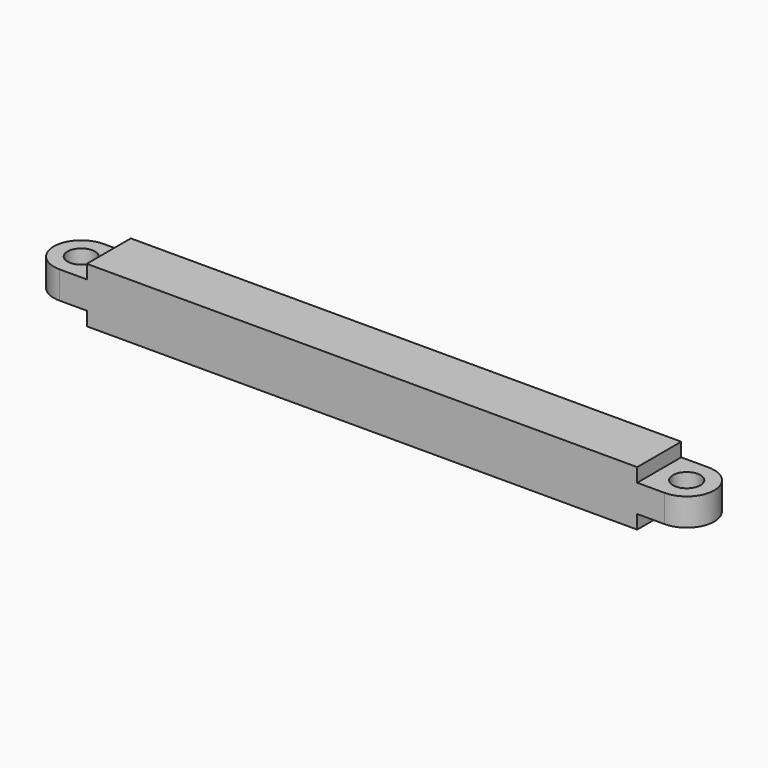
from build123d import *

# Parameters (mm, degrees)
F0_W     = 279.4
F0_H     = 25.4
F1_DEPTH = 25.4
F2_R     = 6.35
F3_DEPTH = 25.4
F4_W     = 152.4
F4_H     = 6.35
F5_DEPTH = 25.401


with BuildPart() as f1:
    # F0 (on Top) → F1 (new body)
    with BuildSketch(Plane.XY):
        Rectangle(F0_W, F0_H)
        with BuildLine():
            Line((139.7, 12.7), (139.7, -12.7))
            ThreePointArc((139.7, -12.7), (152.4, 0), (139.7, 12.7))
        make_face()
        with BuildLine():
            ThreePointArc((-139.7, 12.7), (-152.4, 0), (-139.7, -12.7))
            Line((-139.7, -12.7), (-139.7, 12.7))
        make_face()
    extrude(amount=F1_DEPTH)

    # F2 (on face) → F3 (cut, through all)
    with BuildSketch(Plane.XY.offset(25.4)):
        with Locations((-139.7, 0)):
            Circle(F2_R)
        with Locations((139.7, 0)):
            Circle(F2_R)
    extrude(amount=-F3_DEPTH, mode=Mode.SUBTRACT)

    # F4 (on face) → F5 (cut, through all)
    with BuildSketch(Plane.XZ.offset(12.7)):
        with Locations((-203.2, 22.225)):
            Rectangle(F4_W, F4_H)
        with Locations((-203.2, 3.175)):
            Rectangle(F4_W, F4_H)
        with Locations((203.2, 22.225)):
            Rectangle(F4_W, F4_H)
        with Locations((203.2, 3.175)):
            Rectangle(F4_W, F4_H)
    extrude(amount=-F5_DEPTH, mode=Mode.SUBTRACT)


solid = f1.part
